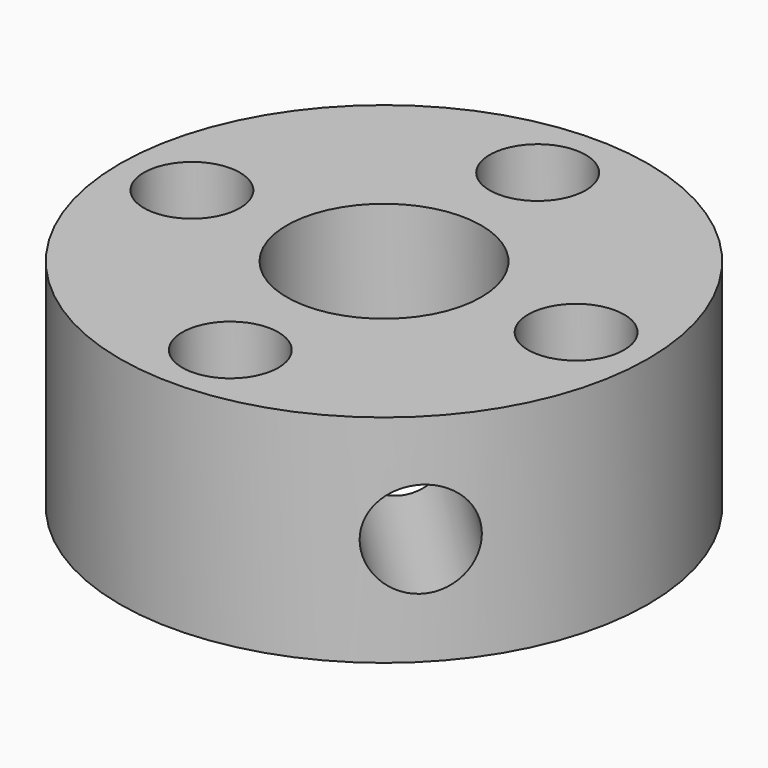
from build123d import *

# Parameters (mm, degrees)
CYLINDER013_R               = 2
CYLINDER013_DEPTH           = 12
CYLINDER013_ROLL_ANGLE      = 90
CYLINDER013_PITCH_ANGLE     = 45
CYLINDER013_PLACEMENT_ANGLE = 45
CYLINDER005_R               = 4.05
CYLINDER005_DEPTH           = 10
CYLINDER011_R               = 2
CYLINDER011_DEPTH           = 10
CYLINDER012_R               = 1.05
CYLINDER012_DEPTH           = 10
CYLINDER009_R               = 2
CYLINDER009_DEPTH           = 10
CYLINDER010_R               = 1.05
CYLINDER010_DEPTH           = 10
CYLINDER007_R               = 2
CYLINDER007_DEPTH           = 10
CYLINDER008_R               = 1.05
CYLINDER008_DEPTH           = 10
CYLINDER006_R               = 2
CYLINDER006_DEPTH           = 10
CYLINDER001_R               = 1.05
CYLINDER001_DEPTH           = 10
CYLINDER_R                  = 11
CYLINDER_DEPTH              = 9


with BuildPart() as cylinder013:
    # Cylinder013 → Cylinder013 (new body)
    with BuildSketch(Plane.XY):
        Circle(CYLINDER013_R)
    extrude(amount=CYLINDER013_DEPTH)


with BuildPart() as cylinder013_1:
    # Cylinder013 roll: moved
    add(cylinder013.part.rotate(Axis((0, 0, 0), (1, 0, 0)), CYLINDER013_ROLL_ANGLE))


with BuildPart() as cylinder013_2:
    # Cylinder013 pitch: moved
    add(cylinder013_1.part.rotate(Axis((0, 0, 0), (0, 1, 0)), CYLINDER013_PITCH_ANGLE))


with BuildPart() as cylinder013_3:
    # Cylinder013 placement: moved
    add(cylinder013_2.part.moved(Location((0, 0, 4.5))).rotate(Axis((0, 0, 4.5), (0, 0, 1)), CYLINDER013_PLACEMENT_ANGLE))


with BuildPart() as cylinder005:
    # Cylinder005 → Cylinder005 (new body)
    with BuildSketch(Plane.XY):
        Circle(CYLINDER005_R)
    extrude(amount=CYLINDER005_DEPTH)


with BuildPart() as cylinder011:
    # Cylinder011 → Cylinder011 (new body)
    with BuildSketch(Plane(origin=(8, 0, 5), x_dir=(1, 0, 0), z_dir=(0, 0, 1))):
        Circle(CYLINDER011_R)
    extrude(amount=CYLINDER011_DEPTH)


with BuildPart() as fusion003:
    # Cylinder012 → Cylinder012 (new body)
    with BuildSketch(Plane(origin=(8, 0, 0), x_dir=(1, 0, 0), z_dir=(0, 0, 1))):
        Circle(CYLINDER012_R)
    extrude(amount=CYLINDER012_DEPTH)

    # Fusion003: union Cylinder011
    add(cylinder011.part)


with BuildPart() as fusion003_1:
    # Fusion003 placement: moved
    add(fusion003.part.moved(Location((-8, -8, -1))))


with BuildPart() as cylinder009:
    # Cylinder009 → Cylinder009 (new body)
    with BuildSketch(Plane(origin=(8, 0, 5), x_dir=(1, 0, 0), z_dir=(0, 0, 1))):
        Circle(CYLINDER009_R)
    extrude(amount=CYLINDER009_DEPTH)


with BuildPart() as fusion002:
    # Cylinder010 → Cylinder010 (new body)
    with BuildSketch(Plane(origin=(8, 0, 0), x_dir=(1, 0, 0), z_dir=(0, 0, 1))):
        Circle(CYLINDER010_R)
    extrude(amount=CYLINDER010_DEPTH)

    # Fusion002: union Cylinder009
    add(cylinder009.part)


with BuildPart() as fusion002_1:
    # Fusion002 placement: moved
    add(fusion002.part.moved(Location((-8, 8, -1))))


with BuildPart() as cylinder007:
    # Cylinder007 → Cylinder007 (new body)
    with BuildSketch(Plane(origin=(8, 0, 5), x_dir=(1, 0, 0), z_dir=(0, 0, 1))):
        Circle(CYLINDER007_R)
    extrude(amount=CYLINDER007_DEPTH)


with BuildPart() as fusion001:
    # Cylinder008 → Cylinder008 (new body)
    with BuildSketch(Plane(origin=(8, 0, 0), x_dir=(1, 0, 0), z_dir=(0, 0, 1))):
        Circle(CYLINDER008_R)
    extrude(amount=CYLINDER008_DEPTH)

    # Fusion001: union Cylinder007
    add(cylinder007.part)


with BuildPart() as fusion001_1:
    # Fusion001 placement: moved
    add(fusion001.part.moved(Location((-16, 0, -1))))


with BuildPart() as cylinder006:
    # Cylinder006 → Cylinder006 (new body)
    with BuildSketch(Plane(origin=(8, 0, 5), x_dir=(1, 0, 0), z_dir=(0, 0, 1))):
        Circle(CYLINDER006_R)
    extrude(amount=CYLINDER006_DEPTH)


with BuildPart() as fusion:
    # Cylinder001 → Cylinder001 (new body)
    with BuildSketch(Plane(origin=(8, 0, 0), x_dir=(1, 0, 0), z_dir=(0, 0, 1))):
        Circle(CYLINDER001_R)
    extrude(amount=CYLINDER001_DEPTH)

    # Fusion: union Cylinder006
    add(cylinder006.part)


with BuildPart() as fusion_1:
    # Fusion placement: moved
    add(fusion.part.moved(Location((0, 0, -1))))


with BuildPart() as cut005:
    # Cylinder → Cylinder (new body)
    with BuildSketch(Plane.XY):
        Circle(CYLINDER_R)
    extrude(amount=CYLINDER_DEPTH)

    # Cut: cut Fusion
    add(fusion_1.part, mode=Mode.SUBTRACT)

    # Cut001: cut Fusion001
    add(fusion001_1.part, mode=Mode.SUBTRACT)

    # Cut002: cut Fusion002
    add(fusion002_1.part, mode=Mode.SUBTRACT)

    # Cut003: cut Fusion003
    add(fusion003_1.part, mode=Mode.SUBTRACT)

    # Cut004: cut Cylinder005
    add(cylinder005.part, mode=Mode.SUBTRACT)

    # Cut005: cut Cylinder013
    add(cylinder013_3.part, mode=Mode.SUBTRACT)


solid = cut005.part
